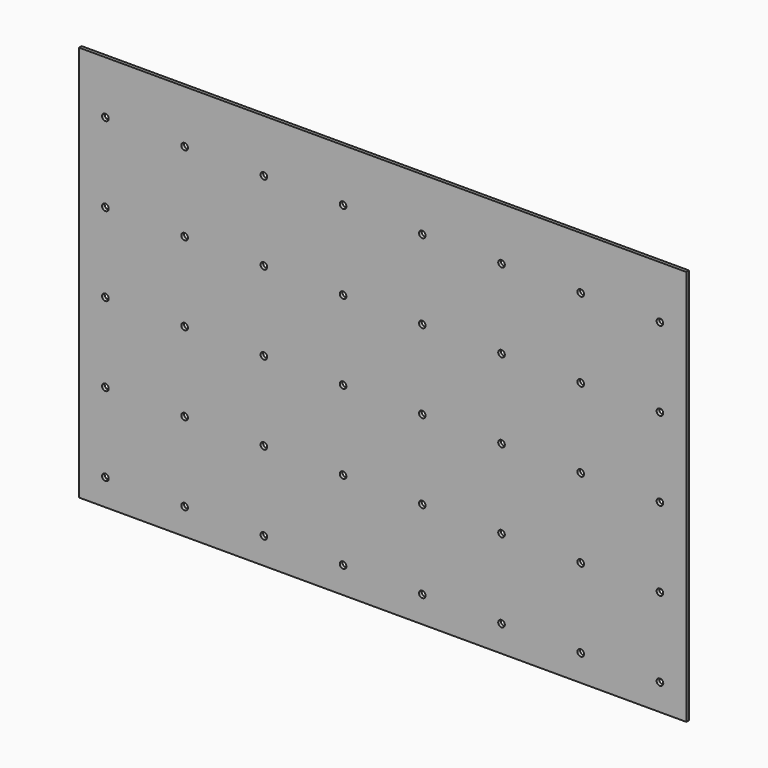
from build123d import *

# Parameters (mm, degrees)
F0_W     = 1168.4
F0_H     = 762
F0_R     = 6.35
F1_DEPTH = 6.35


with BuildPart() as f1:
    # F0 (on Front) → F1 (new body)
    with BuildSketch(Plane.XZ):
        with Locations((-25.4, 0)):
            Rectangle(F0_W, F0_H)
        with Locations((-558.8, -330.2)):
            Circle(F0_R, mode=Mode.SUBTRACT)
        with Locations((-406.4, -330.2)):
            Circle(F0_R, mode=Mode.SUBTRACT)
        with Locations((-254, -330.2)):
            Circle(F0_R, mode=Mode.SUBTRACT)
        with Locations((-101.6, -330.2)):
            Circle(F0_R, mode=Mode.SUBTRACT)
        with Locations((-558.8, -177.8)):
            Circle(F0_R, mode=Mode.SUBTRACT)
        with Locations((-406.4, -177.8)):
            Circle(F0_R, mode=Mode.SUBTRACT)
        with Locations((-558.8, -25.4)):
            Circle(F0_R, mode=Mode.SUBTRACT)
        with Locations((-406.4, -25.4)):
            Circle(F0_R, mode=Mode.SUBTRACT)
        with Locations((-254, -177.8)):
            Circle(F0_R, mode=Mode.SUBTRACT)
        with Locations((-101.6, -177.8)):
            Circle(F0_R, mode=Mode.SUBTRACT)
        with Locations((-254, -25.4)):
            Circle(F0_R, mode=Mode.SUBTRACT)
        with Locations((-101.6, -25.4)):
            Circle(F0_R, mode=Mode.SUBTRACT)
        with Locations((50.8, -330.2)):
            Circle(F0_R, mode=Mode.SUBTRACT)
        with Locations((203.2, -330.2)):
            Circle(F0_R, mode=Mode.SUBTRACT)
        with Locations((355.6, -330.2)):
            Circle(F0_R, mode=Mode.SUBTRACT)
        with Locations((508, -330.2)):
            Circle(F0_R, mode=Mode.SUBTRACT)
        with Locations((50.8, -177.8)):
            Circle(F0_R, mode=Mode.SUBTRACT)
        with Locations((203.2, -177.8)):
            Circle(F0_R, mode=Mode.SUBTRACT)
        with Locations((50.8, -25.4)):
            Circle(F0_R, mode=Mode.SUBTRACT)
        with Locations((203.2, -25.4)):
            Circle(F0_R, mode=Mode.SUBTRACT)
        with Locations((355.6, -177.8)):
            Circle(F0_R, mode=Mode.SUBTRACT)
        with Locations((508, -177.8)):
            Circle(F0_R, mode=Mode.SUBTRACT)
        with Locations((355.6, -25.4)):
            Circle(F0_R, mode=Mode.SUBTRACT)
        with Locations((508, -25.4)):
            Circle(F0_R, mode=Mode.SUBTRACT)
        with Locations((-558.8, 127)):
            Circle(F0_R, mode=Mode.SUBTRACT)
        with Locations((-406.4, 127)):
            Circle(F0_R, mode=Mode.SUBTRACT)
        with Locations((-254, 127)):
            Circle(F0_R, mode=Mode.SUBTRACT)
        with Locations((-101.6, 127)):
            Circle(F0_R, mode=Mode.SUBTRACT)
        with Locations((-558.8, 279.4)):
            Circle(F0_R, mode=Mode.SUBTRACT)
        with Locations((-406.4, 279.4)):
            Circle(F0_R, mode=Mode.SUBTRACT)
        with Locations((-254, 279.4)):
            Circle(F0_R, mode=Mode.SUBTRACT)
        with Locations((-101.6, 279.4)):
            Circle(F0_R, mode=Mode.SUBTRACT)
        with Locations((50.8, 127)):
            Circle(F0_R, mode=Mode.SUBTRACT)
        with Locations((203.2, 127)):
            Circle(F0_R, mode=Mode.SUBTRACT)
        with Locations((355.6, 127)):
            Circle(F0_R, mode=Mode.SUBTRACT)
        with Locations((508, 127)):
            Circle(F0_R, mode=Mode.SUBTRACT)
        with Locations((50.8, 279.4)):
            Circle(F0_R, mode=Mode.SUBTRACT)
        with Locations((203.2, 279.4)):
            Circle(F0_R, mode=Mode.SUBTRACT)
        with Locations((355.6, 279.4)):
            Circle(F0_R, mode=Mode.SUBTRACT)
        with Locations((508, 279.4)):
            Circle(F0_R, mode=Mode.SUBTRACT)
    extrude(amount=F1_DEPTH)


solid = f1.part
